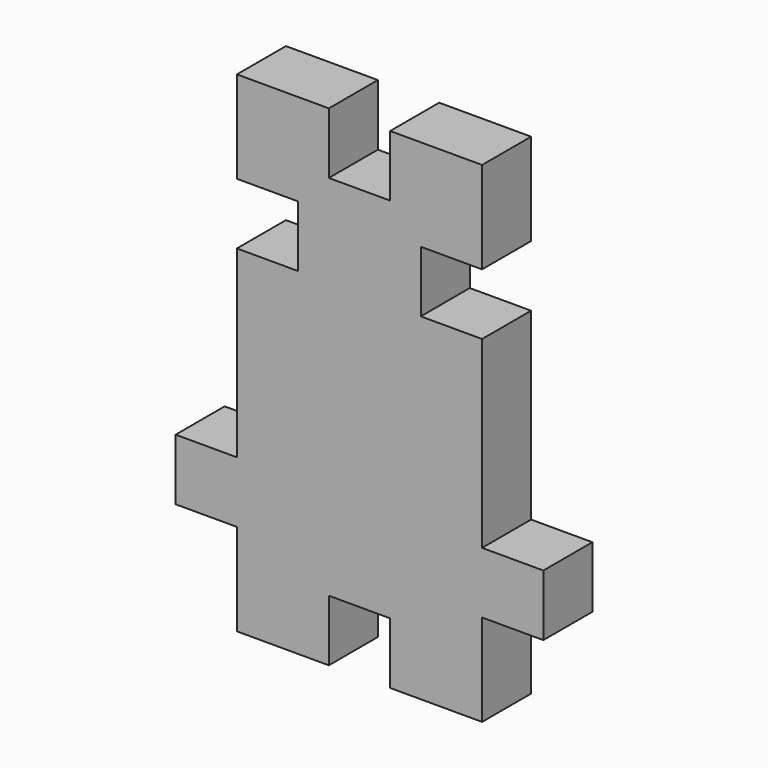
from build123d import *

# Parameters (mm, degrees)
F1_DEPTH = 6.35


with BuildPart() as f1:
    # F0 (on Front) → F1 (new body)
    with BuildSketch(Plane.XZ):
        Polygon((-3.175, 19.05), (-3.175, 25.4), (-12.7, 25.4), (-12.7, 15.875), (-6.35, 15.875), (-6.35, 9.525), (-12.7, 9.525), (-12.7, 0), (-12.7, -9.525), (-19.05, -9.525), (-19.05, -15.875), (-12.7, -15.875), (-12.7, -25.4), (-3.175, -25.4), (-3.175, -19.05), (3.175, -19.05), (3.175, -25.4), (12.7, -25.4), (12.7, -15.875), (19.05, -15.875), (19.05, -9.525), (12.7, -9.525), (12.7, 9.525), (6.35, 9.525), (6.35, 15.875), (12.7, 15.875), (12.7, 25.4), (3.175, 25.4), (3.175, 19.05), align=None)
    extrude(amount=F1_DEPTH)


solid = f1.part
